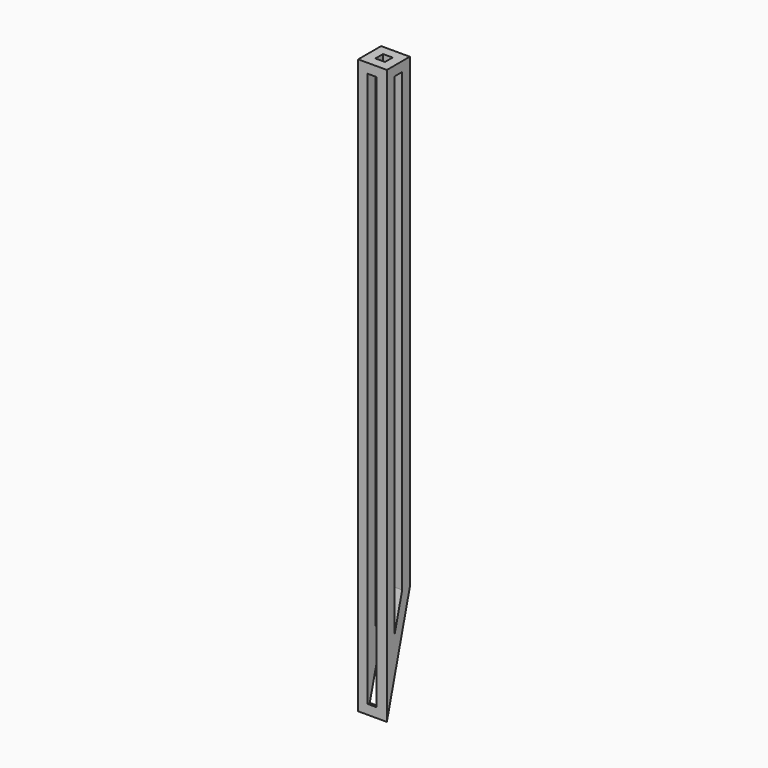
from build123d import *

# Parameters (mm, degrees)
F0_W     = 3.81
F0_H     = 3.81
F1_DEPTH = 11.43
F2_W     = 3.5260741734
F2_H     = 220.98
F3_DEPTH = 25.4
F4_W     = 3.5260741734
F4_H     = 3.81
F5_DEPTH = 3.81
F6_W     = 3.81
F6_H     = 3.81
F7_DEPTH = 25.4


with BuildPart() as f1:
    # F0 (on Right) → F1 (new body)
    with BuildSketch(Plane.YZ):
        with Locations((-41.9773963976, -0.0329993901)):
            Rectangle(F0_W, F0_H)
        with Locations((-38.1673963976, -0.0329993901)):
            Rectangle(F0_W, F0_H)
        Polygon((-40.0723963976, -1.9379993901), (-43.8823963976, -1.9379993901), (-43.8823963976, -212.0072897974), (-40.0723963976, -197.7881762206), align=None)
        with Locations((-34.3573963976, -0.0329993901)):
            Rectangle(F0_W, F0_H)
        Polygon((-40.0723963976, -197.7881762206), (-43.8823963976, -212.0072897974), (-43.8823963976, -226.7279993901), (-40.0723963976, -212.5088858132), align=None)
        Polygon((-32.4523963976, -1.9379993901), (-36.2623963976, -1.9379993901), (-36.2623963976, -183.5690626437), (-32.4523963976, -169.3499490669), align=None)
        Polygon((-36.2623963976, -183.5690626437), (-40.0723963976, -197.7881762206), (-40.0723963976, -212.5088858132), (-36.2623963976, -198.2897722364), align=None)
        Polygon((-32.4523963976, -169.3499490669), (-36.2623963976, -183.5690626437), (-36.2623963976, -198.2897722364), (-32.4523963976, -184.0706586596), align=None)
    extrude(amount=F1_DEPTH)

    # F2 (on face) → F3 (cut)
    with BuildSketch(Plane.XZ.offset(43.8823963976)):
        with Locations((5.5730370867, -112.4279993901)):
            Rectangle(F2_W, F2_H)
    extrude(amount=-F3_DEPTH, mode=Mode.SUBTRACT)

    # F4 (on face) → F5 (join)
    with BuildSketch(Plane(origin=(0, -32.4523963976, 0), x_dir=(-1, 0, 0), z_dir=(0, 1, 0))):
        with Locations((-5.5730370867, -182.1656586596)):
            Rectangle(F4_W, F4_H)
    extrude(amount=-F5_DEPTH)

    # F6 (on face) → F7 (cut)
    with BuildSketch(Plane.XY.offset(1.8720006099)):
        with Locations((5.715, -38.1673963976)):
            Rectangle(F6_W, F6_H)
    extrude(amount=-F7_DEPTH, mode=Mode.SUBTRACT)


solid = f1.part
